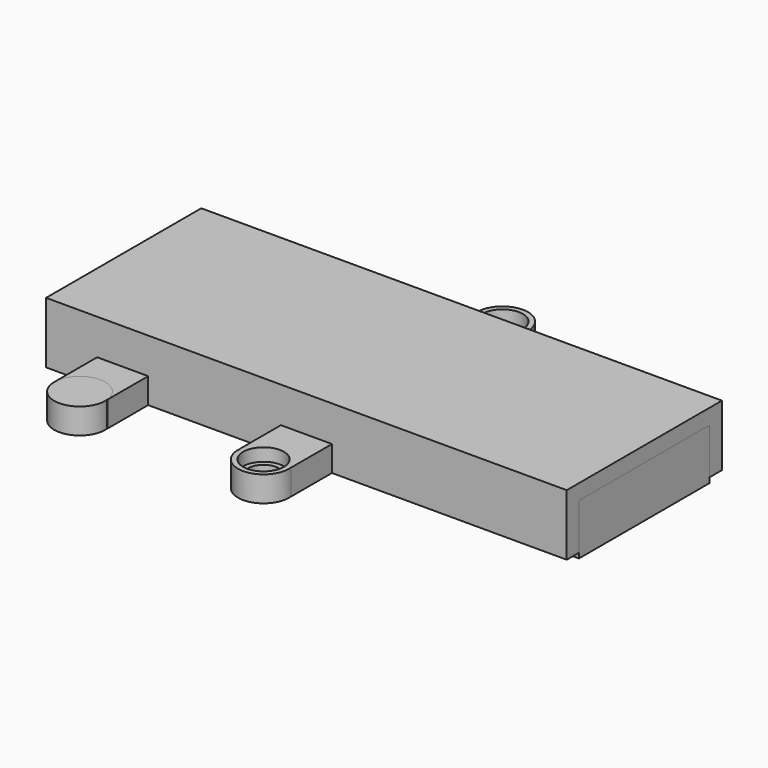
from build123d import *

# Parameters (mm, degrees)
BOX002_W          = 102
BOX002_H          = 38
BOX002_DEPTH      = 10
CYLINDER003_W     = 18
CYLINDER003_H     = 102
CYLINDER003_ANGLE = 180
BOX_W             = 102
BOX_H             = 38
BOX_DEPTH         = 10
BOX004_W          = 10
BOX004_H          = 10
BOX004_DEPTH      = 5
CYLINDER005_R     = 5
CYLINDER005_DEPTH = 5
CYLINDER008_R     = 3
CYLINDER008_DEPTH = 5
CYLINDER006_R     = 4
CYLINDER006_DEPTH = 5
CYLINDER001_R     = 5
CYLINDER001_DEPTH = 5
BOX001_W          = 10
BOX001_H          = 10
BOX001_DEPTH      = 5
CYLINDER009_R     = 3
CYLINDER009_DEPTH = 5
CYLINDER007_R     = 4
CYLINDER007_DEPTH = 5
CYLINDER004_R     = 5
CYLINDER004_DEPTH = 5
BOX003_W          = 10
BOX003_H          = 10
BOX003_DEPTH      = 5
BOX005_W          = 102
BOX005_H          = 38
BOX005_DEPTH      = 12
BOX006_W          = 102
BOX006_H          = 32
BOX006_DEPTH      = 10


with BuildPart() as cube002:
    # Box002 → Box002 (new body)
    with BuildSketch(Plane.XY.offset(8)):
        with Locations((51, 19)):
            Rectangle(BOX002_W, BOX002_H)
    extrude(amount=BOX002_DEPTH)


with BuildPart() as cut002:
    # Cylinder003 → Cylinder003 (revolve)
    with BuildSketch(Plane(origin=(102, 19, 0), x_dir=(0, -1, 0), z_dir=(0, 0, -1))):
        with Locations((9, 51)):
            Rectangle(CYLINDER003_W, CYLINDER003_H)
    revolve(axis=Axis((102, 19, 0), (-1, 0, 0)), revolution_arc=CYLINDER003_ANGLE)

    # Cut002: cut Cube002
    add(cube002.part, mode=Mode.SUBTRACT)


with BuildPart() as cut003:
    # Box → Box (new body)
    with BuildSketch(Plane.XY):
        with Locations((51, 19)):
            Rectangle(BOX_W, BOX_H)
    extrude(amount=BOX_DEPTH)

    # Cut003: cut Cut002
    add(cut002.part, mode=Mode.SUBTRACT)


with BuildPart() as cube004:
    # Box004 → Box004 (new body)
    with BuildSketch(Plane(origin=(10, -10, 0), x_dir=(1, 0, 0), z_dir=(0, 0, 1))):
        with Locations((5, 5)):
            Rectangle(BOX004_W, BOX004_H)
    extrude(amount=BOX004_DEPTH)


with BuildPart() as cylinder005:
    # Cylinder005 → Cylinder005 (new body)
    with BuildSketch(Plane(origin=(15, -10.5, 0), x_dir=(1, 0, 0), z_dir=(0, 0, 1))):
        Circle(CYLINDER005_R)
    extrude(amount=CYLINDER005_DEPTH)


with BuildPart() as cylinder008:
    # Cylinder008 → Cylinder008 (new body)
    with BuildSketch(Plane(origin=(51, -10.5, -0.5), x_dir=(1, 0, 0), z_dir=(0, 0, 1))):
        Circle(CYLINDER008_R)
    extrude(amount=CYLINDER008_DEPTH)


with BuildPart() as cylinder006:
    # Cylinder006 → Cylinder006 (new body)
    with BuildSketch(Plane(origin=(51, -10.5, 2.5), x_dir=(1, 0, 0), z_dir=(0, 0, 1))):
        Circle(CYLINDER006_R)
    extrude(amount=CYLINDER006_DEPTH)


with BuildPart() as cylinder001:
    # Cylinder001 → Cylinder001 (new body)
    with BuildSketch(Plane(origin=(51, -10.5, 0), x_dir=(1, 0, 0), z_dir=(0, 0, 1))):
        Circle(CYLINDER001_R)
    extrude(amount=CYLINDER001_DEPTH)


with BuildPart() as cut005:
    # Box001 → Box001 (new body)
    with BuildSketch(Plane(origin=(46, -10, 0), x_dir=(1, 0, 0), z_dir=(0, 0, 1))):
        with Locations((5, 5)):
            Rectangle(BOX001_W, BOX001_H)
    extrude(amount=BOX001_DEPTH)

    # Fusion: union Cylinder001
    add(cylinder001.part)

    # Cut: cut Cylinder006
    add(cylinder006.part, mode=Mode.SUBTRACT)

    # Cut005: cut Cylinder008
    add(cylinder008.part, mode=Mode.SUBTRACT)


with BuildPart() as cylinder009:
    # Cylinder009 → Cylinder009 (new body)
    with BuildSketch(Plane(origin=(51, 48, -0.5), x_dir=(1, 0, 0), z_dir=(0, 0, 1))):
        Circle(CYLINDER009_R)
    extrude(amount=CYLINDER009_DEPTH)


with BuildPart() as cylinder007:
    # Cylinder007 → Cylinder007 (new body)
    with BuildSketch(Plane(origin=(51, 48, 2.5), x_dir=(1, 0, 0), z_dir=(0, 0, 1))):
        Circle(CYLINDER007_R)
    extrude(amount=CYLINDER007_DEPTH)


with BuildPart() as cylinder004:
    # Cylinder004 → Cylinder004 (new body)
    with BuildSketch(Plane(origin=(51, 48, 0), x_dir=(1, 0, 0), z_dir=(0, 0, 1))):
        Circle(CYLINDER004_R)
    extrude(amount=CYLINDER004_DEPTH)


with BuildPart() as cut006:
    # Box003 → Box003 (new body)
    with BuildSketch(Plane(origin=(46, 38, 0), x_dir=(1, 0, 0), z_dir=(0, 0, 1))):
        with Locations((5, 5)):
            Rectangle(BOX003_W, BOX003_H)
    extrude(amount=BOX003_DEPTH)

    # Fusion001: union Cylinder004
    add(cylinder004.part)

    # Cut004: cut Cylinder007
    add(cylinder007.part, mode=Mode.SUBTRACT)

    # Cut006: cut Cylinder009
    add(cylinder009.part, mode=Mode.SUBTRACT)


with BuildPart() as cube005:
    # Box005 → Box005 (new body)
    with BuildSketch(Plane.XY):
        with Locations((51, 19)):
            Rectangle(BOX005_W, BOX005_H)
    extrude(amount=BOX005_DEPTH)


with BuildPart() as cube006:
    # Box006 → Box006 (new body)
    with BuildSketch(Plane(origin=(0, 3, -1), x_dir=(1, 0, 0), z_dir=(0, 0, 1))):
        with Locations((51, 16)):
            Rectangle(BOX006_W, BOX006_H)
    extrude(amount=BOX006_DEPTH)


solid = Compound([cut003.part, cube004.part, cylinder005.part, cut005.part, cut006.part, cube005.part, cube006.part])
